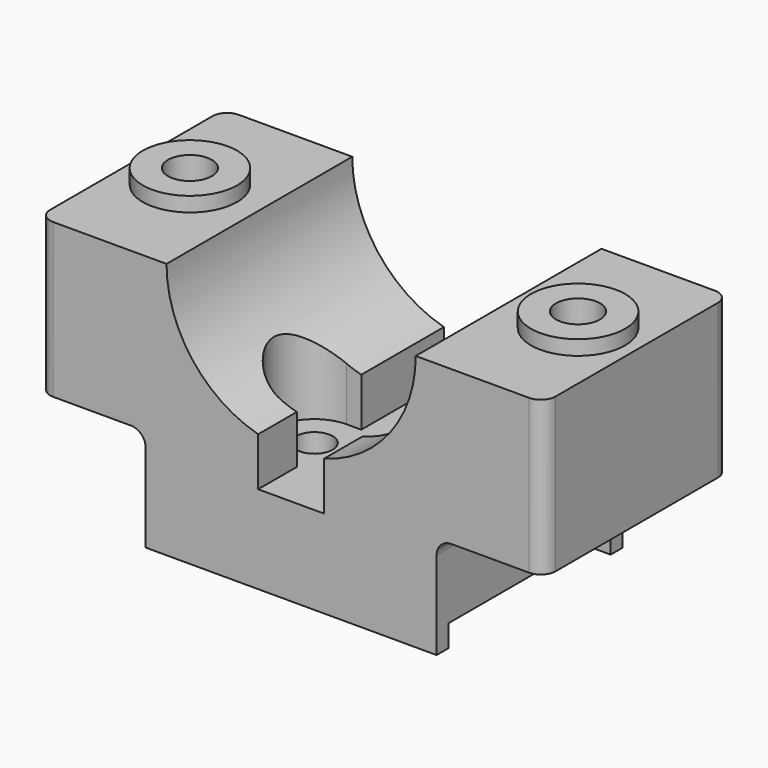
from build123d import *

# Parameters (mm, degrees)
F0_W      = 68.95
F0_H      = 31.6738
F1_DEPTH  = 21
F2_W      = 39.7002
F2_H      = 31.6738
F3_DEPTH  = 11
F4_R      = 6.4262
F4_R_2    = 2.794
F5_DEPTH  = 2
F6_R      = 3
F7_DEPTH  = 34.001
F9_DEPTH  = 10
F11_DEPTH = 31.6748
F12_W     = 39.7002
F12_H     = 2
F13_DEPTH = 3
F14_R     = 2.5
F15_DEPTH = 34.001
F17_DEPTH = 25.001
F18_R     = 2
F19_R     = 2


with BuildPart() as f1:
    # F0 (on Top) → F1 (new body)
    with BuildSketch(Plane.XY):
        Rectangle(F0_W, F0_H)
    extrude(amount=-F1_DEPTH)

    # F2 (on face) → F3 (join)
    with BuildSketch(Plane(origin=(0, 0, -21), x_dir=(1, 0, 0), z_dir=(0, 0, -1))):
        Rectangle(F2_W, F2_H)
    extrude(amount=F3_DEPTH)

    # F4 (on face) → F5 (join)
    with BuildSketch(Plane.XY):
        with Locations((-26.475, 0)):
            Circle(F4_R)
        with Locations((-26.475, 0)):
            Circle(F4_R_2, mode=Mode.SUBTRACT)
        with Locations((26.475, 0)):
            Circle(F4_R)
    extrude(amount=F5_DEPTH)

    # F6 (on face) → F7 (cut, through all)
    with BuildSketch(Plane.XY.offset(2)):
        with Locations((-26.475, 0)):
            Circle(F6_R)
        with Locations((26.475, 0)):
            Circle(F6_R)
    extrude(amount=-F7_DEPTH, mode=Mode.SUBTRACT)

    # F8 (on face) → F9 (cut)
    with BuildSketch(Plane(origin=(0, 0, -21), x_dir=(1, 0, 0), z_dir=(0, 0, -1))):
        Polygon((-26.475, 5.196152), (-30.975, 2.598076), (-30.975, -2.598076), (-26.475, -5.196152), (-21.975, -2.598076), (-21.975, 2.598076), align=None)
        Polygon((26.475, -5.196152), (30.975, -2.598076), (30.975, 2.598076), (26.475, 5.196152), (21.975, 2.598076), (21.975, -2.598076), align=None)
    extrude(amount=-F9_DEPTH, mode=Mode.SUBTRACT)

    # F10 (on face) → F11 (cut, through all)
    with BuildSketch(Plane.XZ.offset(15.8369)):
        with BuildLine():
            Line((4.5, -23), (4.5, -16.393596))
            ThreePointArc((4.5, -16.393596), (13.518506, -10.307764), (17, 0))
            Line((17, 0), (-17, 0))
            ThreePointArc((-17, 0), (-13.518506, -10.307764), (-4.5, -16.393596))
            Line((-4.5, -16.393596), (-4.5, -23))
            Line((-4.5, -23), (4.5, -23))
        make_face()
    extrude(amount=-F11_DEPTH, mode=Mode.SUBTRACT)

    # F12 (on face) → F13 (join)
    with BuildSketch(Plane(origin=(0, 0, -32), x_dir=(1, 0, 0), z_dir=(0, 0, -1))):
        with Locations((0, 14.8369)):
            Rectangle(F12_W, F12_H)
        with Locations((0, -14.8369)):
            Rectangle(F12_W, F12_H)
    extrude(amount=F13_DEPTH)

    # F14 (on face) → F15 (cut, through all)
    with BuildSketch(Plane(origin=(0, 0, -32), x_dir=(1, 0, 0), z_dir=(0, 0, -1))):
        with Locations((-6.5, 3.752777)):
            Circle(F14_R)
        with Locations((6.5, 3.752777)):
            Circle(F14_R)
        with Locations((0, -7.505553)):
            Circle(F14_R)
    extrude(amount=-F15_DEPTH, mode=Mode.SUBTRACT)

    # F16 (on face) → F17 (cut, through all)
    with BuildSketch(Plane.XY.offset(-23)):
        with BuildLine():
            ThreePointArc((-6.5, 1.747223), (-12, -3.752777), (-6.5, -9.252777))
            Line((-6.5, -9.252777), (6.5, -9.252777))
            ThreePointArc((6.5, -9.252777), (12, -3.752777), (6.5, 1.747223))
            Line((6.5, 1.747223), (-6.5, 1.747223))
        make_face()
    extrude(amount=F17_DEPTH, mode=Mode.SUBTRACT)

    # F18
    f18_edges = [f1.edges().sort_by_distance(p)[0] for p in [
        (-34.475, -15.8369, -10.5),
        (34.475, -15.8369, -10.5),
        (34.475, 15.8369, -10.5),
        (-34.475, 15.8369, -10.5),
    ]]
    fillet(f18_edges, radius=F18_R)

    # F19
    f19_edges = [f1.edges().sort_by_distance(p)[0] for p in [
        (-19.8501, 0, -21),
        (19.8501, 0, -21),
    ]]
    fillet(f19_edges, radius=F19_R)


solid = f1.part
